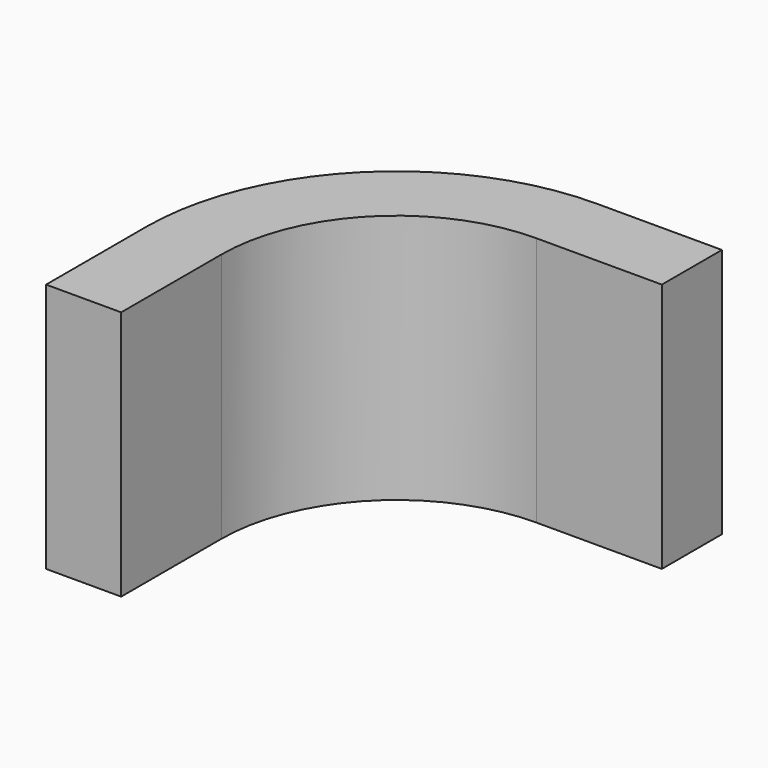
from build123d import *

# Parameters (mm, degrees)
BOX035_W          = 10
BOX035_H          = 10
BOX035_DEPTH      = 10
BOX034_W          = 20
BOX034_H          = 10
BOX034_DEPTH      = 10
CYLINDER060_R     = 7
CYLINDER060_DEPTH = 10
CYLINDER059_R     = 10
CYLINDER059_DEPTH = 10
BOX033_W          = 5
BOX033_H          = 3
BOX033_DEPTH      = 10
BOX032_W          = 3
BOX032_H          = 5
BOX032_DEPTH      = 10


with BuildPart() as cube034:
    # Box035 → Box035 (new body)
    with BuildSketch(Plane.XY):
        with Locations((5, 5)):
            Rectangle(BOX035_W, BOX035_H)
    extrude(amount=BOX035_DEPTH)


with BuildPart() as cube033:
    # Box034 → Box034 (new body)
    with BuildSketch(Plane(origin=(-10, -10, 0), x_dir=(1, 0, 0), z_dir=(0, 0, 1))):
        with Locations((10, 5)):
            Rectangle(BOX034_W, BOX034_H)
    extrude(amount=BOX034_DEPTH)


with BuildPart() as cylinder055:
    # Cylinder060 → Cylinder060 (new body)
    with BuildSketch(Plane.XY):
        Circle(CYLINDER060_R)
    extrude(amount=CYLINDER060_DEPTH)


with BuildPart() as cut013003032015:
    # Cylinder059 → Cylinder059 (new body)
    with BuildSketch(Plane.XY):
        Circle(CYLINDER059_R)
    extrude(amount=CYLINDER059_DEPTH)

    # Cut013003032013: cut Cylinder055
    add(cylinder055.part, mode=Mode.SUBTRACT)

    # Cut013003032014: cut Cube033
    add(cube033.part, mode=Mode.SUBTRACT)

    # Cut013003032015: cut Cube034
    add(cube034.part, mode=Mode.SUBTRACT)


with BuildPart() as cube032:
    # Box033 → Box033 (new body)
    with BuildSketch(Plane(origin=(0, 7, 0), x_dir=(1, 0, 0), z_dir=(0, 0, 1))):
        with Locations((2.5, 1.5)):
            Rectangle(BOX033_W, BOX033_H)
    extrude(amount=BOX033_DEPTH)


with BuildPart() as corner_cut:
    # Box032 → Box032 (new body)
    with BuildSketch(Plane(origin=(-10, -5, 0), x_dir=(1, 0, 0), z_dir=(0, 0, 1))):
        with Locations((1.5, 2.5)):
            Rectangle(BOX032_W, BOX032_H)
    extrude(amount=BOX032_DEPTH)

    # Fusion003025020005006: union Cut013003032015, Cube032
    add(cut013003032015.part)
    add(cube032.part)


solid = corner_cut.part
